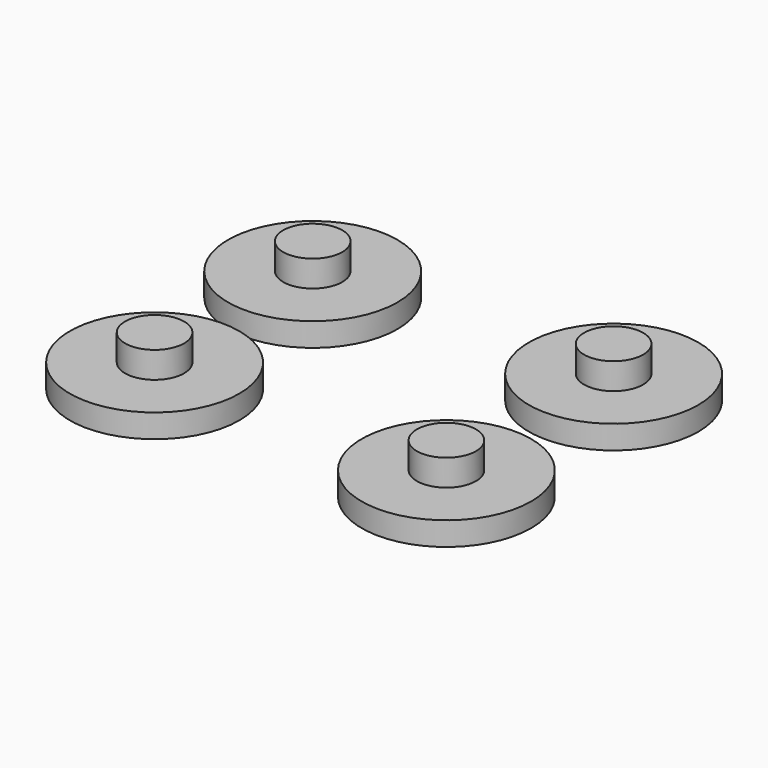
from build123d import *

# Parameters (mm, degrees)
F0_R     = 11.43
F1_DEPTH = 3.175
F2_R     = 3.9878
F3_DEPTH = 3.556


with BuildPart() as f1:
    # F0 (on Top) → F1 (new body)
    with BuildSketch(Plane.XY):
        Circle(F0_R)
    extrude(amount=F1_DEPTH)

    # F2 (on face) → F3 (join)
    with BuildSketch(Plane.XY.offset(3.175)):
        Circle(F2_R)
    extrude(amount=F3_DEPTH)


with BuildPart() as f4_1:
    # F4: copy of F1
    add(f1.part.moved(Location((39.37, 0, 0))))


with BuildPart() as f5_1:
    # F5: copy of F4_1
    add(f4_1.part.moved(Location((0, 28.194, 0))))


with BuildPart() as f6_1:
    # F6: copy of F1
    add(f1.part.moved(Location((0, 26.67, 0))))


solid = Compound([f1.part, f4_1.part, f5_1.part, f6_1.part])
